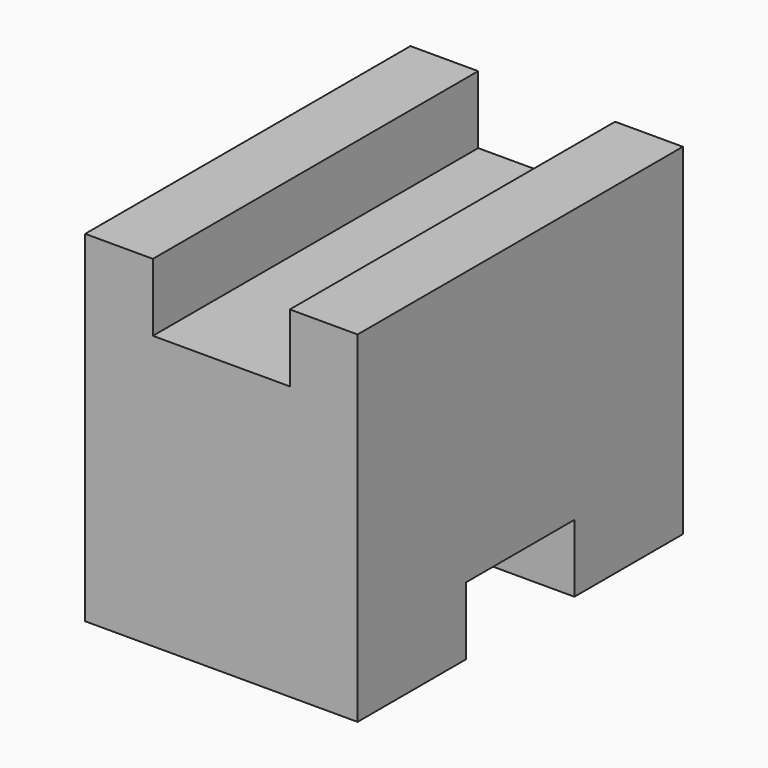
from build123d import *

# Parameters (mm, degrees)
F0_W     = 25.530833751
F0_H     = 31.9637935609
F1_DEPTH = 25.4
F2_W     = 12.830833751
F2_H     = 6.35
F3_DEPTH = 25.401
F4_DEPTH = 12.7
F5_W     = 12.7
F5_H     = 6.35
F6_DEPTH = 25.531833751


with BuildPart() as f1:
    # F0 (on Front) → F1 (new body)
    with BuildSketch(Plane.XZ):
        with Locations((-45.3322995454, 40.3065467253)):
            Rectangle(F0_W, F0_H)
    extrude(amount=F1_DEPTH)

    # F2 (on face) → F3 (cut, through all)
    with BuildSketch(Plane(origin=(0, 0, 0), x_dir=(-1, 0, 0), z_dir=(0, 1, 0))):
        with Locations((45.3322995454, 53.1134435058)):
            Rectangle(F2_W, F2_H)
    extrude(amount=-F3_DEPTH, mode=Mode.SUBTRACT)

    # F4 (add): a face of the model
    f4_faces = [f1.faces().sort_by_distance(p)[0] for p in [
        (-45.3322995454, -25.4, 38.8860849),
    ]]
    extrude(f4_faces, amount=F4_DEPTH)

    # F5 (on face) → F6 (cut, through all)
    with BuildSketch(Plane.YZ.offset(-32.5668826699)):
        with Locations((-19.05, 27.4996499449)):
            Rectangle(F5_W, F5_H)
    extrude(amount=-F6_DEPTH, mode=Mode.SUBTRACT)


solid = f1.part
